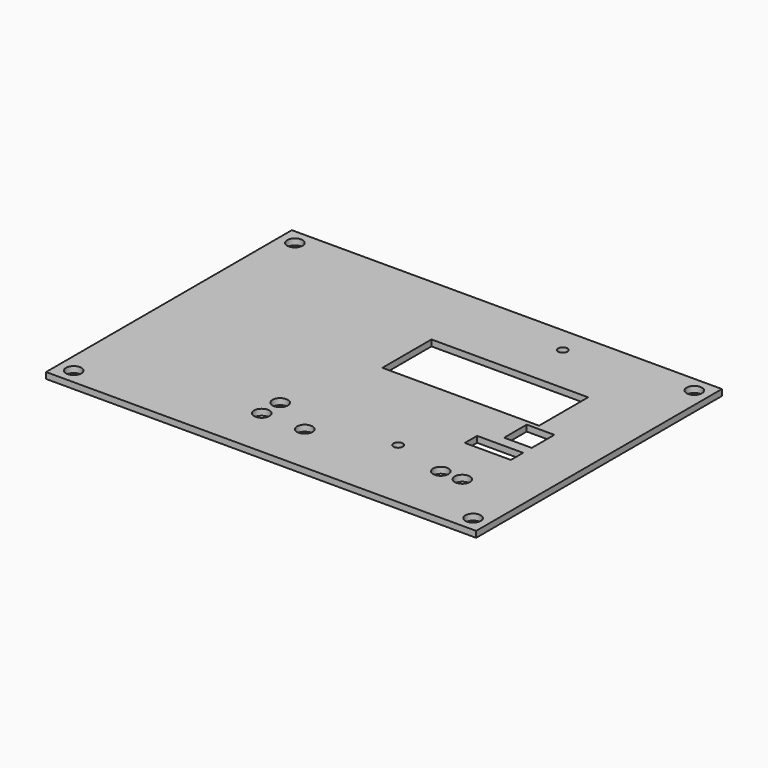
from build123d import *

# Parameters (mm, degrees)
F0_W     = 140
F0_H     = 100
F0_R     = 2.5
F0_R_2   = 1.5
F0_W_2   = 15
F0_H_2   = 5
F0_W_3   = 9
F0_H_3   = 9.2
F0_W_4   = 51
F0_H_4   = 20
F1_DEPTH = 2
F2_ANGLE = 180


with BuildPart() as f1:
    # F0 (on Top) → F1 (new body)
    with BuildSketch(Plane.XY):
        Rectangle(F0_W, F0_H)
        with Locations((-65, -45)):
            Circle(F0_R, mode=Mode.SUBTRACT)
        with Locations((-49.5, -30)):
            Circle(F0_R, mode=Mode.SUBTRACT)
        with Locations((-42.5, -30)):
            Circle(F0_R, mode=Mode.SUBTRACT)
        with Locations((-25, -25.5)):
            Circle(F0_R_2, mode=Mode.SUBTRACT)
        with Locations((-1, -33.5)):
            Circle(F0_R, mode=Mode.SUBTRACT)
        with Locations((-45, -11.5)):
            Rectangle(F0_W_2, F0_H_2, mode=Mode.SUBTRACT)
        with Locations((-48, -0.9)):
            Rectangle(F0_W_3, F0_H_3, mode=Mode.SUBTRACT)
        with Locations((13, -33.5)):
            Circle(F0_R, mode=Mode.SUBTRACT)
        with Locations((13, -26)):
            Circle(F0_R, mode=Mode.SUBTRACT)
        with Locations((65, -45)):
            Circle(F0_R, mode=Mode.SUBTRACT)
        with Locations((-20.8, 15.2)):
            Rectangle(F0_W_4, F0_H_4, mode=Mode.SUBTRACT)
        with Locations((-65, 45)):
            Circle(F0_R, mode=Mode.SUBTRACT)
        with Locations((-25, 41.5)):
            Circle(F0_R_2, mode=Mode.SUBTRACT)
        with Locations((65, 45)):
            Circle(F0_R, mode=Mode.SUBTRACT)
    extrude(amount=F1_DEPTH)


with BuildPart() as f1_1:
    # F2: moved
    add(f1.part.rotate(Axis((-70, 0, 2), (0, -1, 0)), F2_ANGLE))


solid = f1_1.part
